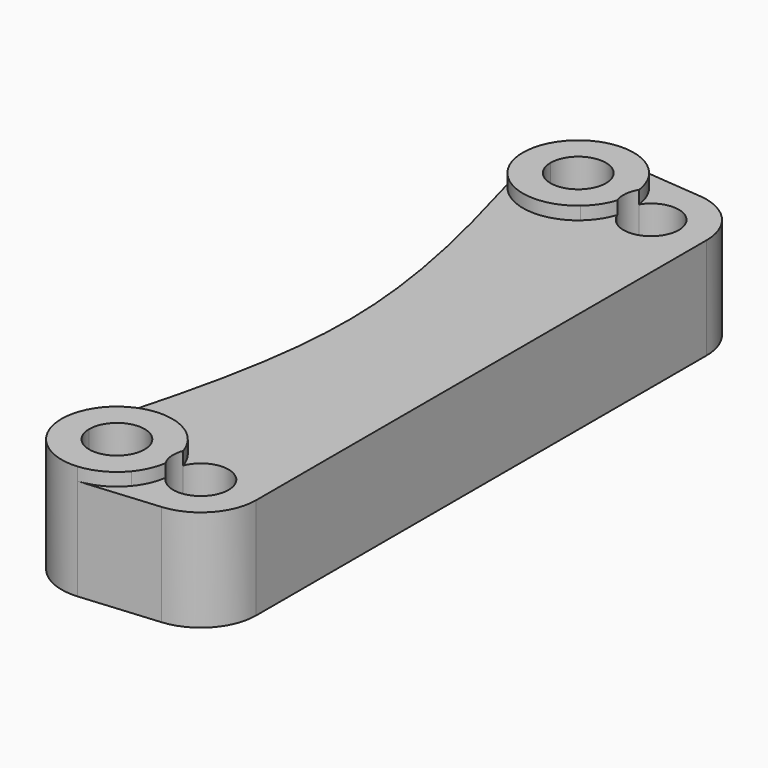
from build123d import *

# Parameters (mm, degrees)
F1_DEPTH = 24.8
F2_DEPTH = 22


with BuildPart() as f1:
    # F0 (on Top) → F1 (new body)
    with BuildSketch(Plane.XY):
        with BuildLine():
            ThreePointArc((-45.7530588014, 64.6964537546), (-44.3048758636, 67.6807833959), (-42.0949857485, 70.1546150208))
            ThreePointArc((-42.0949857485, 70.1546150208), (-45.7577053005, 73.1243246873), (-50.2818437032, 74.4535582003))
            ThreePointArc((-50.2818437032, 74.4535582003), (-59.4403738209, 71.3503307476), (-63.3365694268, 62.5))
            Line((-63.3365694268, 62.5), (-57.3365694268, 62.5))
            ThreePointArc((-57.3365694268, 62.5), (-52.4543655279, 68.3949581743), (-45.7530588014, 64.6964537546))
        make_face()
        with BuildLine():
            ThreePointArc((-61.5100983435, 56.1360932298), (-53.1818892762, 50.642732412), (-43.5781531051, 53.3453849792))
            ThreePointArc((-43.5781531051, 53.3453849792), (-45.3207130283, 56.1679621957), (-46.2239427131, 59.3597694214))
            ThreePointArc((-46.2239427131, 59.3597694214), (-52.9681698249, 56.7261035564), (-57.3365694268, 62.5))
            Line((-57.3365694268, 62.5), (-63.3365694268, 62.5))
            add(Edge.make_bspline(
                [(-63.3365694268, 62.5), (-62.7256343768, 60.3786977433), (-62.1146993269, 58.2573954865), (-61.5100983436, 56.1360932298)],
                knots=[0, 0, 0, 0, 0.0509112542, 0.0509112542, 0.0509112542, 0.0509112542], degree=3))
        make_face()
        with BuildLine():
            ThreePointArc((-39.9200800522, 58.8035462454), (-40.3133485269, 61.5273628618), (-39.4491961404, 64.1402305786))
            ThreePointArc((-39.4491961404, 64.1402305786), (-40.3524258253, 67.3320378043), (-42.0949857485, 70.1546150208))
            ThreePointArc((-42.0949857485, 70.1546150208), (-44.3048758636, 67.6807833959), (-45.7530588014, 64.6964537546))
            ThreePointArc((-45.7530588014, 64.6964537546), (-45.4416112525, 63.6177961012), (-45.3365694268, 62.5))
            ThreePointArc((-45.3365694268, 62.5), (-45.5626729832, 60.8683996019), (-46.2239427131, 59.3597694214))
            ThreePointArc((-46.2239427131, 59.3597694214), (-45.3207130283, 56.1679621957), (-43.5781531051, 53.3453849792))
            ThreePointArc((-43.5781531051, 53.3453849792), (-41.36826299, 55.8192166041), (-39.9200800522, 58.8035462454))
        make_face()
        with BuildLine():
            ThreePointArc((-63.3365694268, 62.5), (-62.870916981, 59.1895881677), (-61.5100983435, 56.1360932298))
            add(Edge.make_bspline(
                [(-63.3365694268, 62.5), (-62.7256343768, 60.3786977433), (-62.1146993269, 58.2573954865), (-61.5100983436, 56.1360932298)],
                knots=[0, 0, 0, 0, 0.0509112542, 0.0509112542, 0.0509112542, 0.0509112542], degree=3))
        make_face()
    extrude(amount=F1_DEPTH)


with BuildPart() as f1b:
    # F0 (on Top) → F1, piece 2 (new body)
    with BuildSketch(Plane.XY):
        with BuildLine():
            ThreePointArc((-43.5781531051, -53.3453849792), (-53.1818892762, -50.642732412), (-61.5100983435, -56.1360932298))
            add(Edge.make_bspline(
                [(-61.5100983436, -56.1360932298), (-62.1146993269, -58.2573954865), (-62.7256343768, -60.3786977433), (-63.3365694268, -62.5)],
                knots=[0.9490887458, 0.9490887458, 0.9490887458, 0.9490887458, 1, 1, 1, 1], degree=3))
            Line((-63.3365694268, -62.5), (-57.3365694268, -62.5))
            ThreePointArc((-57.3365694268, -62.5), (-52.9681698249, -56.7261035564), (-46.2239427131, -59.3597694214))
            ThreePointArc((-46.2239427131, -59.3597694214), (-45.3207130283, -56.1679621957), (-43.5781531051, -53.3453849792))
        make_face()
        with BuildLine():
            add(Edge.make_bspline(
                [(-61.5100983436, -56.1360932298), (-62.1146993269, -58.2573954865), (-62.7256343768, -60.3786977433), (-63.3365694268, -62.5)],
                knots=[0.9490887458, 0.9490887458, 0.9490887458, 0.9490887458, 1, 1, 1, 1], degree=3))
            ThreePointArc((-61.5100983435, -56.1360932298), (-62.870916981, -59.1895881677), (-63.3365694268, -62.5))
        make_face()
        with BuildLine():
            Line((-57.3365694268, -62.5), (-63.3365694268, -62.5))
            ThreePointArc((-63.3365694268, -62.5), (-59.4403738209, -71.3503307476), (-50.2818437032, -74.4535582003))
            ThreePointArc((-50.2818437032, -74.4535582003), (-45.7577053005, -73.1243246873), (-42.0949857485, -70.1546150208))
            ThreePointArc((-42.0949857485, -70.1546150208), (-44.3048758636, -67.6807833959), (-45.7530588014, -64.6964537546))
            ThreePointArc((-45.7530588014, -64.6964537546), (-52.4543655279, -68.3949581743), (-57.3365694268, -62.5))
        make_face()
        with BuildLine():
            ThreePointArc((-39.9200800522, -58.8035462454), (-41.36826299, -55.8192166041), (-43.5781531051, -53.3453849792))
            ThreePointArc((-43.5781531051, -53.3453849792), (-45.3207130283, -56.1679621957), (-46.2239427131, -59.3597694214))
            ThreePointArc((-46.2239427131, -59.3597694214), (-45.5626729832, -60.8683996019), (-45.3365694268, -62.5))
            ThreePointArc((-45.3365694268, -62.5), (-45.4416112525, -63.6177961012), (-45.7530588014, -64.6964537546))
            ThreePointArc((-45.7530588014, -64.6964537546), (-44.3048758636, -67.6807833959), (-42.0949857485, -70.1546150208))
            ThreePointArc((-42.0949857485, -70.1546150208), (-40.3524258253, -67.3320378043), (-39.4491961404, -64.1402305786))
            ThreePointArc((-39.4491961404, -64.1402305786), (-40.3133485269, -61.5273628618), (-39.9200800522, -58.8035462454))
        make_face()
    extrude(amount=F1_DEPTH)


with BuildPart() as f2:
    # F0 (on Top) → F2 (new body)
    with BuildSketch(Plane.XY):
        with BuildLine():
            ThreePointArc((-22.3365694268, 61), (-30.2683391076, 49.7106465167), (-43.5781531051, 53.3453849792))
            ThreePointArc((-43.5781531051, 53.3453849792), (-53.1818892762, 50.642732412), (-61.5100983435, 56.1360932298))
            add(Edge.make_bspline(
                [(-61.5100983436, 56.1360932298), (-56.1769062661, 37.4240621532), (-46.4962325874, 0), (-56.1769062661, -37.4240621532), (-61.5100983436, -56.1360932298)],
                knots=[0.0509112542, 0.0509112542, 0.0509112542, 0.0509112542, 0.5, 0.9490887458, 0.9490887458, 0.9490887458, 0.9490887458], degree=3))
            ThreePointArc((-61.5100983435, -56.1360932298), (-53.1818892762, -50.642732412), (-43.5781531051, -53.3453849792))
            ThreePointArc((-43.5781531051, -53.3453849792), (-30.2683391076, -49.7106465167), (-22.3365694268, -61))
            Line((-22.3365694268, -61), (-22.3365694268, 61))
        make_face()
        with BuildLine():
            Line((-28.3365694268, -61), (-22.3365694268, -61))
            ThreePointArc((-22.3365694268, -61), (-30.2683391076, -49.7106465167), (-43.5781531051, -53.3453849792))
            ThreePointArc((-43.5781531051, -53.3453849792), (-41.36826299, -55.8192166041), (-39.9200800522, -58.8035462454))
            ThreePointArc((-39.9200800522, -58.8035462454), (-33.2187733256, -55.1050418257), (-28.3365694268, -61))
        make_face()
        with BuildLine():
            ThreePointArc((-33.2818437032, -72.9535582003), (-25.4862386792, -69.1038043942), (-22.3365694268, -61))
            Line((-22.3365694268, -61), (-28.3365694268, -61))
            ThreePointArc((-28.3365694268, -61), (-32.7049690287, -66.7738964436), (-39.4491961404, -64.1402305786))
            ThreePointArc((-39.4491961404, -64.1402305786), (-40.3524258253, -67.3320378043), (-42.0949857485, -70.1546150208))
            ThreePointArc((-42.0949857485, -70.1546150208), (-37.9688397415, -72.4370718438), (-33.2818437032, -72.9535582003))
        make_face()
        with BuildLine():
            ThreePointArc((-39.4491961404, 64.1402305786), (-32.7049690287, 66.7738964436), (-28.3365694268, 61))
            ThreePointArc((-28.3365694268, 61), (-33.2187733256, 55.1050418257), (-39.9200800522, 58.8035462454))
            ThreePointArc((-39.9200800522, 58.8035462454), (-41.36826299, 55.8192166041), (-43.5781531051, 53.3453849792))
            ThreePointArc((-43.5781531051, 53.3453849792), (-30.2683391076, 49.7106465167), (-22.3365694268, 61))
            ThreePointArc((-22.3365694268, 61), (-25.4862386792, 69.1038043942), (-33.2818437032, 72.9535582003))
            ThreePointArc((-33.2818437032, 72.9535582003), (-37.9688397415, 72.4370718438), (-42.0949857485, 70.1546150208))
            ThreePointArc((-42.0949857485, 70.1546150208), (-40.3524258253, 67.3320378043), (-39.4491961404, 64.1402305786))
        make_face()
        with BuildLine():
            Line((-50.2818437032, -74.4535582003), (-33.2818437032, -72.9535582003))
            ThreePointArc((-33.2818437032, -72.9535582003), (-37.9688397415, -72.4370718438), (-42.0949857485, -70.1546150208))
            ThreePointArc((-42.0949857485, -70.1546150208), (-45.7577053005, -73.1243246873), (-50.2818437032, -74.4535582003))
        make_face()
        with BuildLine():
            ThreePointArc((-50.2818437032, 74.4535582003), (-45.7577053005, 73.1243246873), (-42.0949857485, 70.1546150208))
            ThreePointArc((-42.0949857485, 70.1546150208), (-37.9688397415, 72.4370718438), (-33.2818437032, 72.9535582003))
            Line((-33.2818437032, 72.9535582003), (-50.2818437032, 74.4535582003))
        make_face()
    extrude(amount=F2_DEPTH)


solid = Compound([f1.part, f1b.part, f2.part])
